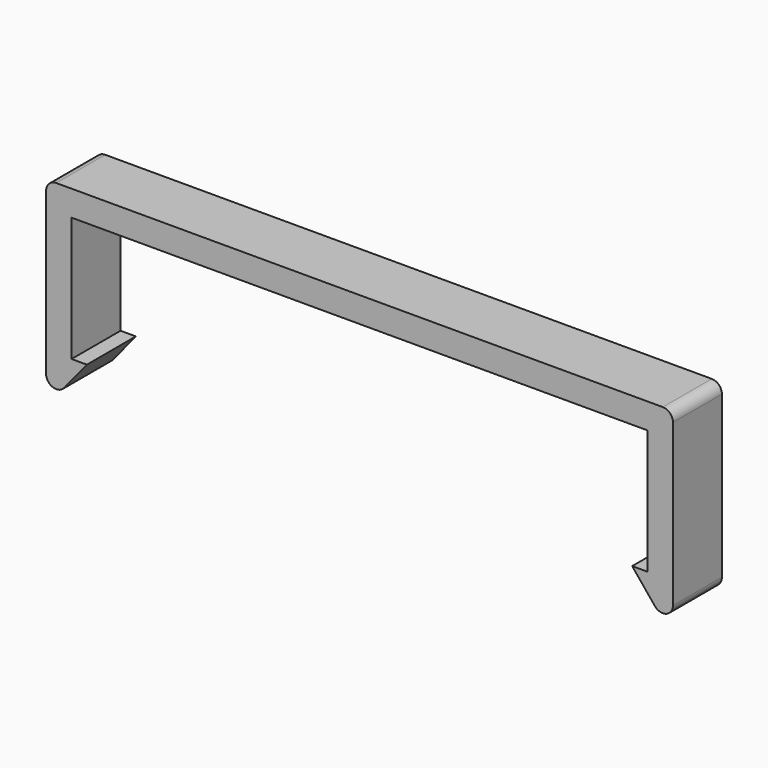
from build123d import *

# Parameters (mm, degrees)
F1_DEPTH = 6
F2_R     = 1


with BuildPart() as f1:
    # F0 (on Front) → F1 (new body)
    with BuildSketch(Plane.XZ):
        Polygon((0, 0), (0, -12.2), (-1.5, -12.2), (2.5, -17.1), (2.5, 0), (2.5, 2.5), (0, 2.5), (-16.5, 2.5), (-28.23, 2.5), (-39.96, 2.5), (-56.46, 2.5), (-58.96, 2.5), (-58.96, 0), (-58.96, -17.1), (-54.96, -12.2), (-56.46, -12.2), (-56.46, 0), (-46.36, 0), (-28.23, 0), (-10.1, 0), align=None)
    extrude(amount=F1_DEPTH)

    # F2
    f2_edges = [f1.edges().sort_by_distance(p)[0] for p in [
        (-58.96, -3, -17.1),
        (2.5, -3, -17.1),
        (-58.96, -3, 2.5),
        (2.5, -3, 2.5),
    ]]
    fillet(f2_edges, radius=F2_R)


solid = f1.part
